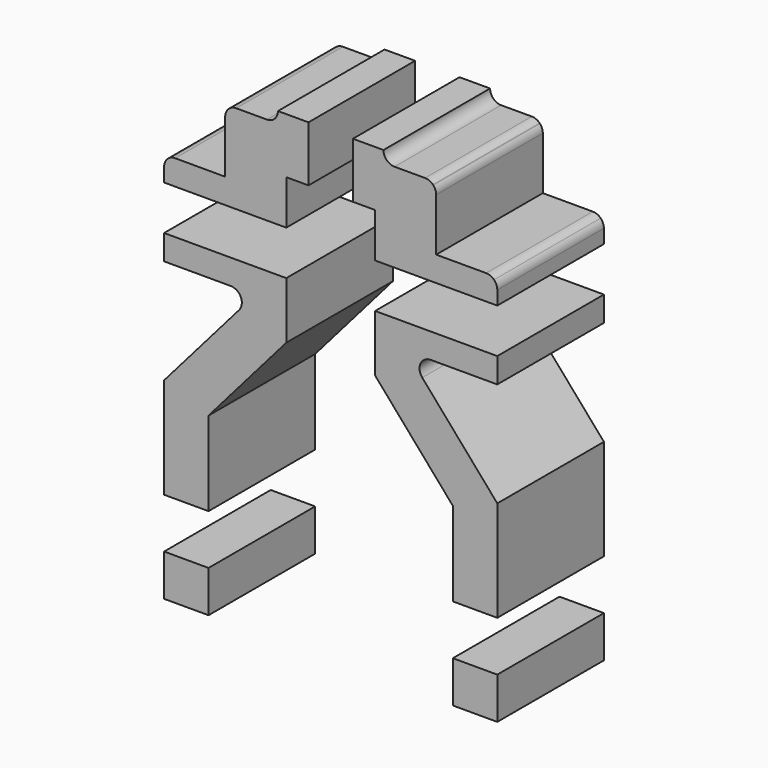
from build123d import *

# Parameters (mm, degrees)
F0_W     = 8
F0_H     = 7.5
F1_DEPTH = 24


with BuildPart() as f1:
    # F0 (on Front) → F1 (new body)
    with BuildSketch(Plane.XZ):
        with BuildLine():
            Line((-4, 62), (-4, 72))
            Line((-4, 72), (-9.5, 72))
            ThreePointArc((-9.5, 72), (-10.085786, 70.585786), (-11.5, 70))
            Line((-11.5, 70), (-17, 70))
            ThreePointArc((-17, 70), (-17.765367, 69.847759), (-18.414214, 69.414214))
            Line((-18.414214, 69.414214), (-18.47564, 69.349995))
            ThreePointArc((-18.47564, 69.349995), (-18.864307, 68.724127), (-19, 68))
            Line((-19, 68), (-19, 58.5))
            Line((-19, 58.5), (-8, 58.5))
            Line((-8, 58.5), (-8, 62))
            Line((-8, 62), (-4, 62))
        make_face()
        with BuildLine():
            Line((-8, 54), (-8, 58.5))
            Line((-8, 58.5), (-19, 58.5))
            Line((-19, 58.5), (-28, 58.5))
            ThreePointArc((-28, 58.5), (-28.765367, 58.347759), (-29.414214, 57.914214))
            ThreePointArc((-29.414214, 57.914214), (-29.847759, 57.265367), (-30, 56.5))
            Line((-30, 56.5), (-30, 54))
            Line((-30, 54), (-8, 54))
        make_face()
        with BuildLine():
            Line((-8, 35.761153), (-8, 46))
            Line((-8, 46), (-30, 46))
            Line((-30, 46), (-30, 41.5))
            Line((-30, 41.5), (-18, 41.5))
            ThreePointArc((-18, 41.5), (-16.180077, 40.329386), (-16.490581, 38.187882))
            Line((-16.490581, 38.187882), (-30, 22.647073))
            Line((-30, 22.647073), (-30, 4.5))
            Line((-30, 4.5), (-22, 4.5))
            Line((-22, 4.5), (-22, 19.655996))
            Line((-22, 19.655996), (-8, 35.761153))
        make_face()
        with Locations((-26, -8.25)):
            Rectangle(F0_W, F0_H)
        with Locations((26, -8.25)):
            Rectangle(F0_W, F0_H)
        with BuildLine():
            Line((30, 46), (8, 46))
            Line((8, 46), (8, 35.761153))
            Line((8, 35.761153), (22, 19.655996))
            Line((22, 19.655996), (22, 4.5))
            Line((22, 4.5), (30, 4.5))
            Line((30, 4.5), (30, 22.647073))
            Line((30, 22.647073), (16.490581, 38.187882))
            ThreePointArc((16.490581, 38.187882), (16.180077, 40.329386), (18, 41.5))
            Line((18, 41.5), (30, 41.5))
            Line((30, 41.5), (30, 46))
        make_face()
        with BuildLine():
            Line((19, 58.5), (8, 58.5))
            Line((8, 58.5), (8, 54))
            Line((8, 54), (30, 54))
            Line((30, 54), (30, 56.5))
            ThreePointArc((30, 56.5), (29.847759, 57.265367), (29.414214, 57.914214))
            ThreePointArc((29.414214, 57.914214), (28.765367, 58.347759), (28, 58.5))
            Line((28, 58.5), (19, 58.5))
        make_face()
        with BuildLine():
            Line((9.5, 72), (4, 72))
            Line((4, 72), (4, 62))
            Line((4, 62), (8, 62))
            Line((8, 62), (8, 58.5))
            Line((8, 58.5), (19, 58.5))
            Line((19, 58.5), (19, 68))
            ThreePointArc((19, 68), (18.864307, 68.724127), (18.47564, 69.349995))
            Line((18.47564, 69.349995), (18.414214, 69.414214))
            ThreePointArc((18.414214, 69.414214), (17.765367, 69.847759), (17, 70))
            Line((17, 70), (11.5, 70))
            ThreePointArc((11.5, 70), (10.085786, 70.585786), (9.5, 72))
        make_face()
    extrude(amount=F1_DEPTH)


solid = f1.part
